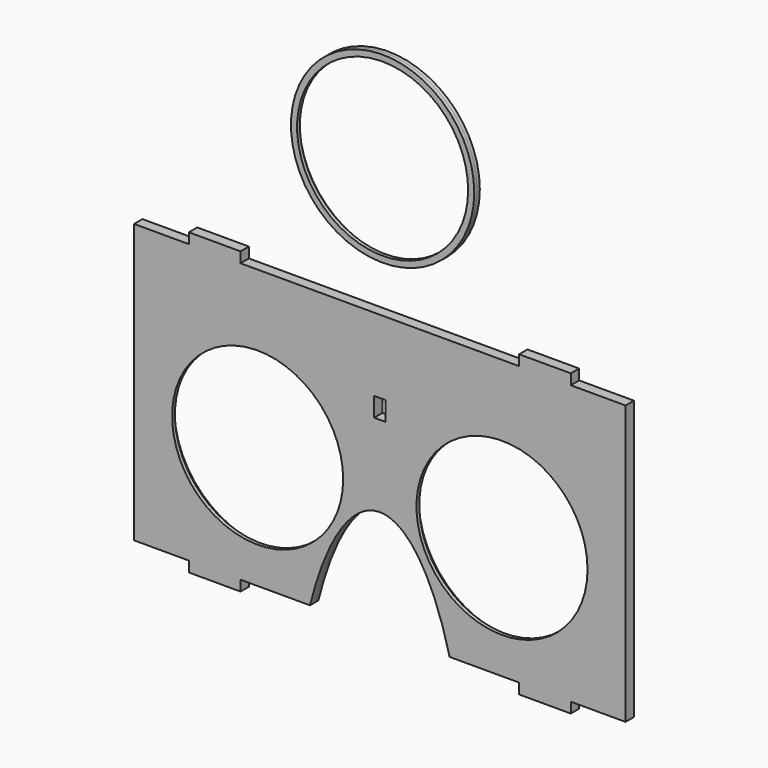
from build123d import *

# Parameters (mm, degrees)
F0_R          = 26.25
F0_W          = 3.2
F0_H          = 5.5
F0_W_2        = 14.8
F0_H_2        = 3
F0_R_2        = 25.4
F2_DEPTH      = 2
F2_DEPTH_BACK = 1
F3_DEPTH      = 1
F4_START      = 1
F0_R_3        = 24.5
F4_DEPTH      = 1
F1_R          = 26.25
F1_R_2        = 25.4
F5_DEPTH      = 1
F1_R_3        = 24.5
F6_DEPTH      = 1


with BuildPart() as f2:
    # F0 (on Front) → F2 (new body, two sides)
    with BuildSketch(Plane.XZ) as f2_sk:
        with BuildLine():
            Line((70.4, -39.9), (70.4, 39.9))
            Line((70.4, 39.9), (54.7, 39.9))
            Line((54.7, 39.9), (39.9, 39.9))
            Line((39.9, 39.9), (-39.9, 39.9))
            Line((-39.9, 39.9), (-54.7, 39.9))
            Line((-54.7, 39.9), (-70.4, 39.9))
            Line((-70.4, 39.9), (-70.4, -39.9))
            Line((-70.4, -39.9), (-54.7, -39.9))
            Line((-54.7, -39.9), (-39.9, -39.9))
            Line((-39.9, -39.9), (-20, -39.9))
            add(Edge.make_bspline(
                [(0, -9.9), (-12.5, -9.9), (-20, -39.9)],
                knots=[0, 0, 0, 0.927295218, 0.927295218, 0.927295218], degree=2, weights=[1, 0.894427191, 1]))
            add(Edge.make_bspline(
                [(20, -39.9), (12.5, -9.9), (0, -9.9)],
                knots=[5.3558900892, 5.3558900892, 5.3558900892, 6.2831853072, 6.2831853072, 6.2831853072], degree=2, weights=[1, 0.894427191, 1]))
            Line((20, -39.9), (39.9, -39.9))
            Line((39.9, -39.9), (54.7, -39.9))
            Line((54.7, -39.9), (70.4, -39.9))
        make_face()
        with Locations((-35, -5)):
            Circle(F0_R, mode=Mode.SUBTRACT)
        with Locations((0, 16.15)):
            Rectangle(F0_W, F0_H, mode=Mode.SUBTRACT)
        with Locations((35, -5)):
            Circle(F0_R, mode=Mode.SUBTRACT)
        with Locations((-47.3, 41.4)):
            Rectangle(F0_W_2, F0_H_2)
        with Locations((-47.3, -41.4)):
            Rectangle(F0_W_2, F0_H_2)
        with Locations((47.3, -41.4)):
            Rectangle(F0_W_2, F0_H_2)
        with Locations((47.3, 41.4)):
            Rectangle(F0_W_2, F0_H_2)
        with Locations((-35, -5)):
            Circle(F0_R)
        with Locations((-35, -5)):
            Circle(F0_R_2, mode=Mode.SUBTRACT)
        with Locations((35, -5)):
            Circle(F0_R)
        with Locations((35, -5)):
            Circle(F0_R_2, mode=Mode.SUBTRACT)
    extrude(amount=F2_DEPTH)
    extrude(f2_sk.sketch, amount=-F2_DEPTH_BACK)

    # F0 (on Front) → F3 (cut, through all)
    with BuildSketch(Plane.XZ):
        with Locations((35, -5)):
            Circle(F0_R)
        with Locations((35, -5)):
            Circle(F0_R_2, mode=Mode.SUBTRACT)
        with Locations((-35, -5)):
            Circle(F0_R)
        with Locations((-35, -5)):
            Circle(F0_R_2, mode=Mode.SUBTRACT)
    extrude(amount=-F3_DEPTH, mode=Mode.SUBTRACT)

    # F0 (on Front) → F4 (join)
    with BuildSketch(Plane.XZ.offset(F4_START)):
        with Locations((35, -5)):
            Circle(F0_R_2)
        with Locations((35, -5)):
            Circle(F0_R_3, mode=Mode.SUBTRACT)
        with Locations((-35, -5)):
            Circle(F0_R_2)
        with Locations((-35, -5)):
            Circle(F0_R_3, mode=Mode.SUBTRACT)
    extrude(amount=F4_DEPTH)


with BuildPart() as f5:
    # F1 (on Front) → F5 (new body)
    with BuildSketch(Plane.XZ):
        with Locations((0, 78.8367218888)):
            Circle(F1_R)
        with Locations((0, 78.8367218888)):
            Circle(F1_R_2, mode=Mode.SUBTRACT)
    extrude(amount=-F5_DEPTH)

    # F1 (on Front) → F6 (join)
    with BuildSketch(Plane.XZ):
        with Locations((0, 78.8367218888)):
            Circle(F1_R)
        with Locations((0, 78.8367218888)):
            Circle(F1_R_2, mode=Mode.SUBTRACT)
        with Locations((0, 78.8367218888)):
            Circle(F1_R_2)
        with Locations((0, 78.8367218888)):
            Circle(F1_R_3, mode=Mode.SUBTRACT)
    extrude(amount=F6_DEPTH)


solid = Compound([f2.part, f5.part])
